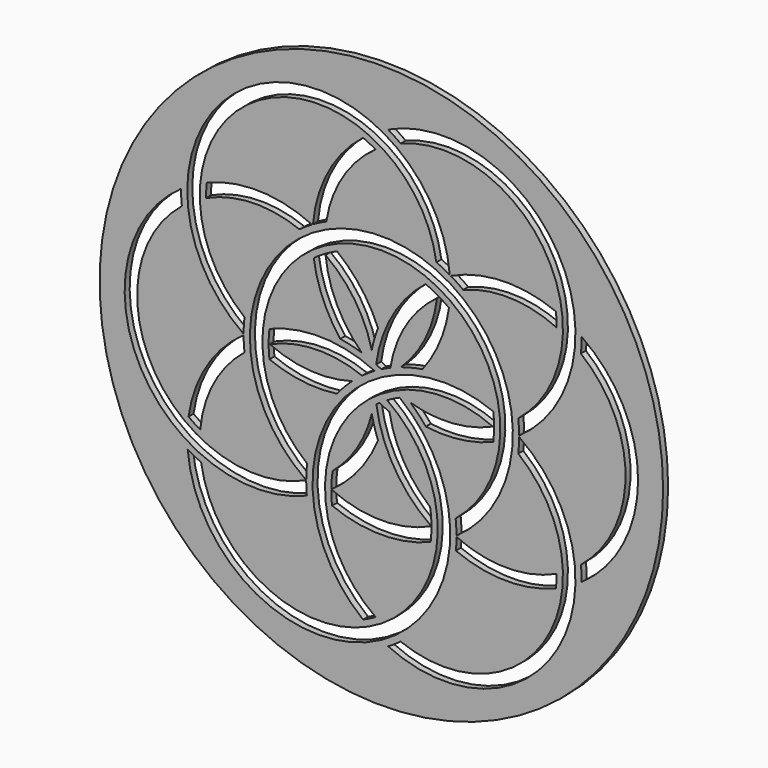
from build123d import *

# Parameters (mm, degrees)
F0_R     = 114.3
F1_DEPTH = 2.54
F3_DEPTH = 2.541


with BuildPart() as f1:
    # F0 (on Front) → F1 (new body)
    with BuildSketch(Plane.XZ):
        Circle(F0_R)
    extrude(amount=-F1_DEPTH)

    # F2 (on Front) → F3 (cut, through all)
    with BuildSketch(Plane.XZ):
        with BuildLine():
            ThreePointArc((-30.4795640664, -43.7733650005), (-30.3847868761, -40.733422914), (-30.1247543303, -37.7031401417))
            ThreePointArc((-30.1247543303, -37.7031401417), (0, 48.26), (30.1247543303, -37.7031401417))
            ThreePointArc((30.1247543303, -37.7031401417), (30.3848015954, -40.7336747472), (30.479566057, -43.7738695226))
            ThreePointArc((30.479566057, -43.7738695226), (0.0002643883, 53.3399999993), (-30.48, -43.7735673666))
            ThreePointArc((-30.48, -43.7735673666), (-30.4797820329, -43.7734661841), (-30.4795640664, -43.7733650005))
        make_face()
        with BuildLine():
            ThreePointArc((-30.479566057, -43.7738695226), (-30.4795650622, -43.7736172615), (-30.4795640664, -43.7733650005))
            ThreePointArc((-30.4795640664, -43.7733650005), (-30.4797820329, -43.7734661841), (-30.48, -43.7735673666))
            ThreePointArc((-30.48, -43.7735673666), (-30.4797830289, -43.7737184451), (-30.479566057, -43.7738695226))
        make_face()
        with BuildLine():
            ThreePointArc((-30.479566057, -43.7738695226), (-30.4797830289, -43.7737184451), (-30.48, -43.7735673666))
            ThreePointArc((-30.48, -43.7735673666), (-91.8322649688, -25.4043467055), (-80.9247543303, 37.7031401417))
            ThreePointArc((-80.9247543303, 37.7031401417), (-81.1848015954, 40.7336747472), (-81.279566057, 43.7738695226))
            ThreePointArc((-81.279566057, 43.7738695226), (-97.5586839931, -25.6667308249), (-30.2354369958, -49.2164032457))
            ThreePointArc((-30.2354369958, -49.2164032457), (-30.4238682805, -46.4981133163), (-30.479566057, -43.7738695226))
        make_face()
        with BuildLine():
            ThreePointArc((-55.879566057, 0.2202209897), (-55.7848015954, 3.2604157651), (-55.5247543303, 6.2909503706))
            ThreePointArc((-55.5247543303, 6.2909503706), (-49.53, 85.7884764989), (22.3142543303, 51.2313229742))
            ThreePointArc((22.3142543303, 51.2313229742), (25.0687979183, 49.9412632092), (27.749066057, 48.5032342526))
            ThreePointArc((27.749066057, 48.5032342526), (-52.07, 90.1878855501), (-55.879566057, 0.2202209897))
        make_face()
        with BuildLine():
            ThreePointArc((7.4295, -1.9538772665), (4.849718735, -3.1528816671), (2.3495, -4.5100070133))
            ThreePointArc((2.3495, -4.5100070133), (0.0040979991, -85.0265094618), (-73.1142543303, -51.2313229742))
            ThreePointArc((-73.1142543303, -51.2313229742), (-75.8687979183, -49.9412632092), (-78.549066057, -48.5032342526))
            ThreePointArc((-78.549066057, -48.5032342526), (-0.0044915361, -90.9006332313), (7.4295, -1.9538772665))
        make_face()
        with BuildLine():
            ThreePointArc((2.7305, 92.2771037752), (5.3160036771, 90.6749379564), (7.8105, 88.9344631158))
            ThreePointArc((7.8105, 88.9344631158), (67.1943859866, 68.1240905122), (55.5247543303, 6.2909503706))
            ThreePointArc((55.5247543303, 6.2909503706), (55.7848015954, 3.2604157651), (55.879566057, 0.2202209897))
            ThreePointArc((55.879566057, 0.2202209897), (71.5937950379, 70.6640905122), (2.7305, 92.2771037752))
        make_face()
        with BuildLine():
            ThreePointArc((-22.3142543303, 51.2313229742), (-15.6324189496, 69.3981885113), (-2.3495, 83.4781740112))
            ThreePointArc((-2.3495, 83.4781740112), (-4.849718735, 84.8352993574), (-7.4295, 86.034303758))
            ThreePointArc((-7.4295, 86.034303758), (-21.5065427191, 69.3895989762), (-27.749066057, 48.5032342526))
            ThreePointArc((-27.749066057, 48.5032342526), (-25.0687979183, 49.9412632092), (-22.3142543303, 51.2313229742))
        make_face()
        with BuildLine():
            ThreePointArc((-70.7931426514, 49.4512876164), (-71.0446650136, 46.6176293044), (-71.1194693552, 43.7738136918))
            ThreePointArc((-71.1194693552, 43.7738136918), (-52.2843847526, 48.2371661886), (-33.2105, 44.9403726036))
            ThreePointArc((-33.2105, 44.9403726036), (-30.7160036771, 46.6808474442), (-28.1305, 48.2830132629))
            ThreePointArc((-28.1305, 48.2830132629), (-49.3398841122, 53.3200118304), (-70.7931426514, 49.4512876164))
        make_face()
        with BuildLine():
            ThreePointArc((80.9247543303, -37.7031401417), (81.1848015954, -40.7336747472), (81.279566057, -43.7738695226))
            ThreePointArc((81.279566057, -43.7738695226), (104.14, 0), (81.279566057, 43.7738695226))
            ThreePointArc((81.279566057, 43.7738695226), (81.1848015954, 40.7336747472), (80.9247543303, 37.7031401417))
            ThreePointArc((80.9247543303, 37.7031401417), (99.06, 0), (80.9247543303, -37.7031401417))
        make_face()
        with BuildLine():
            ThreePointArc((45.7194693552, 0.2202768205), (45.6314951561, 2.8434222023), (45.3931426514, 5.4571971042))
            ThreePointArc((45.3931426514, 5.4571971042), (-20.7937950379, -17.3240905122), (-7.4295, -86.034303758))
            ThreePointArc((-7.4295, -86.034303758), (-4.849718735, -84.8352993574), (-2.3495, -83.4781740112))
            ThreePointArc((-2.3495, -83.4781740112), (-16.5261160487, -20.093705723), (45.2380341768, 0))
            ThreePointArc((45.2380341768, 0), (45.479053836, 0.1094782085), (45.7194693552, 0.2202768205))
        make_face()
        with BuildLine():
            ThreePointArc((45.7194693552, -0.2202768205), (45.72, 0), (45.7194693552, 0.2202768205))
            ThreePointArc((45.7194693552, 0.2202768205), (45.479053836, 0.1094782085), (45.2380341768, 0))
            ThreePointArc((45.2380341768, 0), (45.479053836, -0.1094782085), (45.7194693552, -0.2202768205))
        make_face()
        with BuildLine():
            ThreePointArc((45.3931426514, -5.4571971042), (45.6314951561, -2.8434222023), (45.7194693552, -0.2202768205))
            ThreePointArc((45.7194693552, -0.2202768205), (45.479053836, -0.1094782085), (45.2380341768, 0))
            ThreePointArc((45.2380341768, 0), (28.7381728295, -4.1503193622), (11.8234160943, -2.3168581873))
            ThreePointArc((11.8234160943, -2.3168581873), (15.0594576912, -5.4505218745), (18.0325765656, -8.8346580243))
            ThreePointArc((18.0325765656, -8.8346580243), (31.9348302964, -8.9440960169), (45.3931426514, -5.4571971042))
        make_face()
        with BuildLine():
            ThreePointArc((55.879566057, -0.2202209897), (55.7848015954, -3.2604157651), (55.5247543303, -6.2909503706))
            ThreePointArc((55.5247543303, -6.2909503706), (67.1943859866, -68.1240905122), (7.8105, -88.9344631158))
            ThreePointArc((7.8105, -88.9344631158), (5.3160036771, -90.6749379564), (2.7305, -92.2771037752))
            ThreePointArc((2.7305, -92.2771037752), (71.5937950379, -70.6640905122), (55.879566057, -0.2202209897))
        make_face()
        with BuildLine():
            ThreePointArc((-73.4689693552, -39.7043603194), (-67.9168037022, -21.1610223227), (-55.5247543303, -6.2909503706))
            ThreePointArc((-55.5247543303, -6.2909503706), (-55.7848015954, -3.2604157651), (-55.879566057, -0.2202209897))
            ThreePointArc((-55.879566057, -0.2202209897), (-70.8464268313, -16.0695871458), (-78.2226426514, -36.5830161416))
            ThreePointArc((-78.2226426514, -36.5830161416), (-75.8943837486, -38.217670053), (-73.4689693552, -39.7043603194))
        make_face()
        with BuildLine():
            ThreePointArc((-2.7305, 4.2889227507), (-23.9398841122, 9.3259213182), (-45.3931426514, 5.4571971042))
            ThreePointArc((-45.3931426514, 5.4571971042), (-45.6314951561, 2.8434222023), (-45.7194693552, 0.2202768205))
            ThreePointArc((-45.7194693552, 0.2202768205), (-45.479053836, 0.1094782085), (-45.2380341768, 0))
            ThreePointArc((-45.2380341768, 0), (-26.6197700337, 4.2504921999), (-7.8105, 0.9462820913))
            ThreePointArc((-7.8105, 0.9462820913), (-5.3160036771, 2.6867569319), (-2.7305, 4.2889227507))
        make_face()
        with BuildLine():
            ThreePointArc((-45.2380341768, 0), (-45.479053836, 0.1094782085), (-45.7194693552, 0.2202768205))
            ThreePointArc((-45.7194693552, 0.2202768205), (-45.72, 0), (-45.7194693552, -0.2202768205))
            ThreePointArc((-45.7194693552, -0.2202768205), (-45.479053836, -0.1094782085), (-45.2380341768, 0))
        make_face()
        with BuildLine():
            ThreePointArc((-45.2380341768, 0), (-45.479053836, -0.1094782085), (-45.7194693552, -0.2202768205))
            ThreePointArc((-45.7194693552, -0.2202768205), (-45.6314951561, -2.8434222023), (-45.3931426514, -5.4571971042))
            ThreePointArc((-45.3931426514, -5.4571971042), (-31.9348302964, -8.9440960169), (-18.0325765656, -8.8346580243))
            ThreePointArc((-18.0325765656, -8.8346580243), (-15.0594576912, -5.4505218745), (-11.8234160943, -2.3168581873))
            ThreePointArc((-11.8234160943, -2.3168581873), (-28.7381728295, -4.1503193622), (-45.2380341768, 0))
        make_face()
        with BuildLine():
            ThreePointArc((28.1305, 48.2830132629), (30.7160036771, 46.6808474442), (33.2105, 44.9403726036))
            ThreePointArc((33.2105, 44.9403726036), (52.2843847526, 48.2371661886), (71.1194693552, 43.7738136918))
            ThreePointArc((71.1194693552, 43.7738136918), (71.0446650136, 46.6176293044), (70.7931426514, 49.4512876164))
            ThreePointArc((70.7931426514, 49.4512876164), (49.3398841122, 53.3200118304), (28.1305, 48.2830132629))
        make_face()
        with BuildLine():
            ThreePointArc((22.6689693552, 39.7043603194), (20.3532717171, 40.939745119), (17.9705, 42.0402132458))
            ThreePointArc((17.9705, 42.0402132458), (4.4525265653, 26.4020322365), (-2.1049369958, 6.7987676435))
            ThreePointArc((-2.1049369958, 6.7987676435), (-1.0471357752, 6.3001676496), (0, 5.7795410611))
            ThreePointArc((0, 5.7795410611), (1.8083693615, 6.6617024814), (3.6473252028, 7.4781888152))
            ThreePointArc((3.6473252028, 7.4781888152), (10.0332728398, 24.8469717497), (22.5442498176, 38.4826016548))
            ThreePointArc((22.5442498176, 38.4826016548), (22.6104961185, 39.0930842422), (22.6689693552, 39.7043603194))
        make_face()
        with BuildLine():
            ThreePointArc((23.5399640897, 39.1942405291), (23.1058745361, 39.4517041701), (22.6689693552, 39.7043603194))
            ThreePointArc((22.6689693552, 39.7043603194), (22.6104961185, 39.0930842422), (22.5442498176, 38.4826016548))
            ThreePointArc((22.5442498176, 38.4826016548), (23.0398264803, 38.8416118955), (23.5399640897, 39.1942405291))
        make_face()
        with BuildLine():
            ThreePointArc((23.5399640897, 39.1942405291), (23.0398264803, 38.8416118955), (22.5442498176, 38.4826016548))
            ThreePointArc((22.5442498176, 38.4826016548), (17.8089035477, 22.499480625), (7.9181660943, 9.0809496036))
            ThreePointArc((7.9181660943, 9.0809496036), (12.2500192528, 10.3166119906), (16.6673265656, 11.1993403893))
            ThreePointArc((16.6673265656, 11.1993403893), (23.7132295127, 23.1843262938), (27.4226426514, 36.5830161416))
            ThreePointArc((27.4226426514, 36.5830161416), (25.5147299547, 37.9383309509), (23.5399640897, 39.1942405291))
        make_face()
        with BuildLine():
            ThreePointArc((-19.7768096998, -36.9674081266), (-20.172154209, -40.3202422913), (-20.3190092844, -43.6931086989))
            ThreePointArc((-20.3190092844, -43.6931086989), (-20.2846796317, -43.7090569369), (-20.2503374614, -43.7249782021))
            ThreePointArc((-20.2503374614, -43.7249782021), (-9.0903824865, -33.2485098445), (-1.36525, -20.0339984136))
            ThreePointArc((-1.36525, -20.0339984136), (-2.8094384384, -15.7671338651), (-3.90525, -11.3978077909))
            ThreePointArc((-3.90525, -11.3978077909), (-9.7969212072, -25.4514268659), (-19.7768096998, -36.9674081266))
        make_face()
        with BuildLine():
            ThreePointArc((-20.2503374614, -43.7249782021), (-20.2846796317, -43.7090569369), (-20.3190092844, -43.6931086989))
            ThreePointArc((-20.3190092844, -43.6931086989), (-20.3192553654, -43.7331521456), (-20.319466374, -43.7731957923))
            ThreePointArc((-20.319466374, -43.7731957923), (-20.284892394, -43.7491006513), (-20.2503374614, -43.7249782021))
        make_face()
        with BuildLine():
            ThreePointArc((20.2503374614, -43.7249782021), (0, -48.1866152171), (-20.2503374614, -43.7249782021))
            ThreePointArc((-20.2503374614, -43.7249782021), (-20.284892394, -43.7491006513), (-20.319466374, -43.7731957923))
            ThreePointArc((-20.319466374, -43.7731957923), (-20.2446827412, -46.6173208601), (-19.9931426514, -49.4512876164))
            ThreePointArc((-19.9931426514, -49.4512876164), (0, -53.34), (19.9931426514, -49.4512876164))
            ThreePointArc((19.9931426514, -49.4512876164), (20.2446827412, -46.6173208601), (20.319466374, -43.7731957923))
            ThreePointArc((20.319466374, -43.7731957923), (20.284892394, -43.7491006513), (20.2503374614, -43.7249782021))
        make_face()
        with BuildLine():
            ThreePointArc((-2.0226426514, -7.4110743707), (5.331217071, -27.8880866851), (20.2503374614, -43.7249782021))
            ThreePointArc((20.2503374614, -43.7249782021), (20.2846796317, -43.7090569369), (20.3190092844, -43.6931086989))
            ThreePointArc((20.3190092844, -43.6931086989), (20.172154209, -40.3202422913), (19.7768096998, -36.9674081266))
            ThreePointArc((19.7768096998, -36.9674081266), (9.0056140134, -24.13), (3.2736903002, -8.3831668431))
            ThreePointArc((3.2736903002, -8.3831668431), (1.2417128395, -7.4775310911), (-0.7532823109, -6.4931008671))
            ThreePointArc((-0.7532823109, -6.4931008671), (-1.3918943475, -6.9466506915), (-2.0226426514, -7.4110743707))
        make_face()
        with BuildLine():
            ThreePointArc((20.3190092844, -43.6931086989), (20.2846796317, -43.7090569369), (20.2503374614, -43.7249782021))
            ThreePointArc((20.2503374614, -43.7249782021), (20.284892394, -43.7491006513), (20.319466374, -43.7731957923))
            ThreePointArc((20.319466374, -43.7731957923), (20.3192553654, -43.7331521456), (20.3190092844, -43.6931086989))
        make_face()
        with BuildLine():
            ThreePointArc((70.7931426514, -49.4512876164), (71.0325656255, -46.8202813121), (71.1196226768, -44.1798384319))
            ThreePointArc((71.1196226768, -44.1798384319), (50.7996230123, -48.6286457703), (30.4796923278, -44.1795233757))
            ThreePointArc((30.4796923278, -44.1795233757), (30.4144117296, -46.7007200172), (30.2354369958, -49.2164032457))
            ThreePointArc((30.2354369958, -49.2164032457), (50.491093911, -53.3391055139), (70.7931426514, -49.4512876164))
        make_face()
        with BuildLine():
            ThreePointArc((-17.9705, 42.0402132458), (-20.3597653172, 40.9365161711), (-22.6815640134, 39.6971668247))
            ThreePointArc((-22.6815640134, 39.6971668247), (-22.6581056936, 39.442296548), (-22.6332963696, 39.1875542309))
            ThreePointArc((-22.6332963696, 39.1875542309), (-10.7797181784, 26.9704401692), (-3.90525, 11.3978077909))
            ThreePointArc((-3.90525, 11.3978077909), (-2.8094384384, 15.7671338651), (-1.36525, 20.0339984136))
            ThreePointArc((-1.36525, 20.0339984136), (-8.2216007837, 32.1284223107), (-17.9705, 42.0402132458))
        make_face()
        with BuildLine():
            ThreePointArc((-22.6332963696, 39.1875542309), (-22.6581056936, 39.442296548), (-22.6815640134, 39.6971668247))
            ThreePointArc((-22.6815640134, 39.6971668247), (-22.8662802147, 39.5910549132), (-23.0505, 39.4840834989))
            ThreePointArc((-23.0505, 39.4840834989), (-22.8415050564, 39.3363719792), (-22.6332963696, 39.1875542309))
        make_face()
        with BuildLine():
            ThreePointArc((-7.9472971643, 9.0905359226), (-17.983843522, 22.8247146969), (-22.6332963696, 39.1875542309))
            ThreePointArc((-22.6332963696, 39.1875542309), (-22.8415050564, 39.3363719792), (-23.0505, 39.4840834989))
            ThreePointArc((-23.0505, 39.4840834989), (-25.2782234389, 38.0963229167), (-27.4226426514, 36.5830161416))
            ThreePointArc((-27.4226426514, 36.5830161416), (-23.7132295127, 23.1843262938), (-16.6673265656, 11.1993403893))
            ThreePointArc((-16.6673265656, 11.1993403893), (-12.2649230428, 10.3202184066), (-7.9472971643, 9.0905359226))
        make_face()
    extrude(amount=-F3_DEPTH, mode=Mode.SUBTRACT)


solid = f1.part
